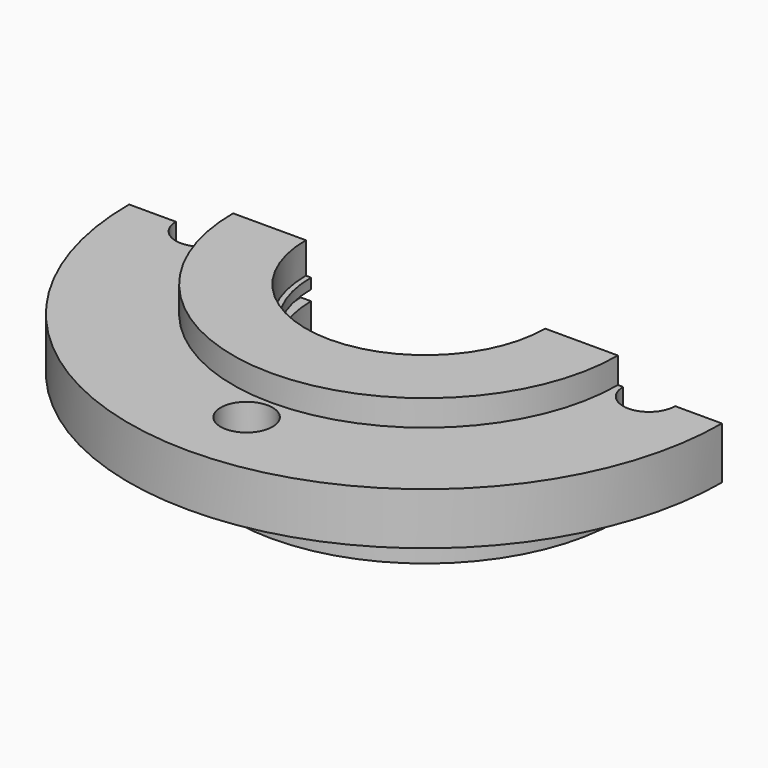
from build123d import *

# Parameters (mm, degrees)
F2_R     = 2.5
F3_DEPTH = 23.001
F4_R     = 5
F4_R_2   = 2.5
F5_DEPTH = 6.5
F6_W     = 137.496356
F6_H     = 90.131391
F7_DEPTH = 57.001


with BuildPart() as f1:
    # F0 (on Front) → F1 (revolve)
    with BuildSketch(Plane.XZ):
        with BuildLine():
            Line((19, 21.923511), (5, 21.923511))
            Line((5, 21.923511), (5, 16.923511))
            Line((5, 16.923511), (-15, 16.923511))
            Line((-15, 16.923511), (-15, 6.923511))
            Line((-15, 6.923511), (4, 6.923511))
            Line((4, 6.923511), (4, 2.12446))
            ThreePointArc((4, 2.12446), (4.679018, 1.859872), (5, 1.205621))
            Line((5, 1.205621), (5, -6.076489))
            Line((5, -6.076489), (8.5, -6.076489))
            Line((8.5, -6.076489), (8.5, -3.076489))
            Line((8.5, -3.076489), (20, -3.076489))
            Line((20, -3.076489), (20, 11.923511))
            Line((20, 11.923511), (18, 11.923511))
            Line((18, 11.923511), (18, 13.923511))
            Line((18, 13.923511), (20, 13.923511))
            Line((20, 13.923511), (20, 15.923511))
            Line((20, 15.923511), (19, 15.923511))
            Line((19, 15.923511), (19, 21.923511))
        make_face()
    revolve(axis=Axis((42, 0, 16.450874), (0, 0, -1)))

    # F2 (on face) → F3 (cut, through all)
    with BuildSketch(Plane.XY.offset(16.923511)):
        with Locations((-1, 0)):
            Circle(F2_R)
        with Locations((85, 0)):
            Circle(F2_R)
        with Locations((42, 43)):
            Circle(F2_R)
        with Locations((42, -43)):
            Circle(F2_R)
    extrude(amount=-F3_DEPTH, mode=Mode.SUBTRACT)

    # F4 (on face) → F5 (cut)
    with BuildSketch(Plane.XY.offset(16.923511)):
        with Locations((-1, 0)):
            Circle(F4_R)
        with Locations((-1, 0)):
            Circle(F4_R_2, mode=Mode.SUBTRACT)
        with Locations((42, 43)):
            Circle(F4_R)
        with Locations((42, 43)):
            Circle(F4_R_2, mode=Mode.SUBTRACT)
        with Locations((85, 0)):
            Circle(F4_R)
        with Locations((85, 0)):
            Circle(F4_R_2, mode=Mode.SUBTRACT)
        with Locations((42, -43)):
            Circle(F4_R)
        with Locations((42, -43)):
            Circle(F4_R_2, mode=Mode.SUBTRACT)
    extrude(amount=-F5_DEPTH, mode=Mode.SUBTRACT)

    # F6 (on Front) → F7 (cut, through all)
    with BuildSketch(Plane.XZ):
        with Locations((31.107662, 6.20803)):
            Rectangle(F6_W, F6_H)
    extrude(amount=-F7_DEPTH, mode=Mode.SUBTRACT)


solid = f1.part
